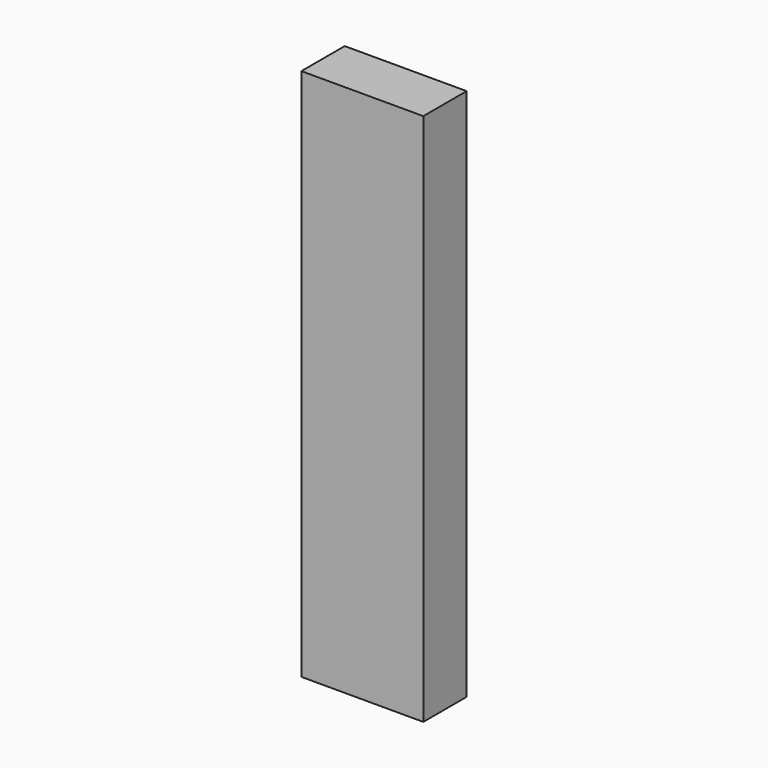
from build123d import *

# Parameters (mm, degrees)
RECTANGLE_W           = 22.86
RECTANGLE_H           = 10.16
EXTRUDE_DEPTH         = 100
CLONE_SCALE_SCALE     = 0.001
CLONE_PLACEMENT_ANGLE = 90


with BuildPart() as extrude_body:
    # Rectangle → Extrude (new body)
    with BuildSketch(Plane(origin=(-11.43, -5.08, 0), x_dir=(1, 0, 0), z_dir=(0, 0, 1))):
        with Locations((11.43, 5.08)):
            Rectangle(RECTANGLE_W, RECTANGLE_H)
    extrude(amount=EXTRUDE_DEPTH)


with BuildPart() as extrude001:
    # Clone base: copy of Extrude body
    add(extrude_body.part)


with BuildPart() as extrude001_1:
    # Clone scale: moved
    add(extrude001.part.scale(CLONE_SCALE_SCALE))


with BuildPart() as extrude001_2:
    # Clone placement: moved
    add(extrude001_1.part.rotate(Axis((0, 0, 0), (1, 0, 0)), CLONE_PLACEMENT_ANGLE))


solid = Compound([extrude_body.part, extrude001_2.part])
